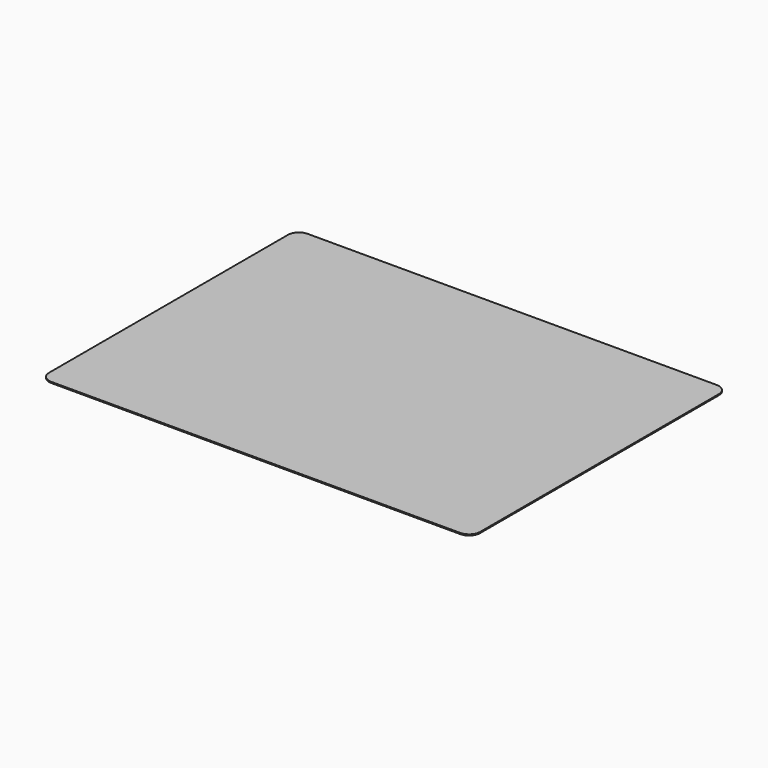
from build123d import *

# Parameters (mm, degrees)
SKETCH_W  = 390
SKETCH_H  = 290
PAD_DEPTH = 1
FILLET_R  = 10


with BuildPart() as part:
    # Sketch → Pad (new body)
    with BuildSketch(Plane.XY):
        Rectangle(SKETCH_W, SKETCH_H)
    extrude(amount=PAD_DEPTH)

    # Fillet
    fillet_edges = [part.edges().sort_by_distance(p)[0] for p in [
        (195, 145, 0.5),
        (195, -145, 0.5),
        (-195, 145, 0.5),
        (-195, -145, 0.5),
    ]]
    fillet(fillet_edges, radius=FILLET_R)


solid = part.part
